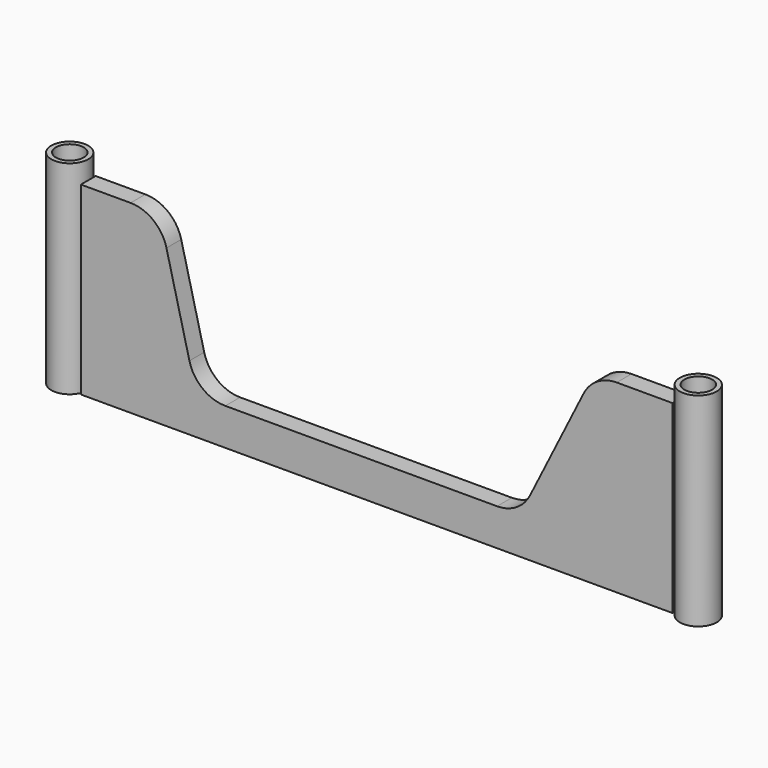
from build123d import *

# Parameters (mm, degrees)
F1_DEPTH = 12.7
F2_R     = 12.7
F2_R_2   = 9.525
F3_DEPTH = 139.7
F4_R     = 12.7
F4_R_2   = 9.525
F5_DEPTH = 139.7


with BuildPart() as f1:
    # F0 (on Front) → F1 (new body)
    with BuildSketch(Plane.XZ):
        with BuildLine():
            Line((206.551937, -297.053099), (19.831721, -297.053099))
            ThreePointArc((19.831721, -297.053099), (4.200251, -291.673517), (-4.809899, -277.813504))
            Line((-4.809899, -277.813504), (-20.590101, -214.692694))
            ThreePointArc((-20.590101, -214.692694), (-29.600251, -200.832681), (-45.231721, -195.453099))
            Line((-45.231721, -195.453099), (-79.375, -195.453099))
            Line((-79.375, -195.453099), (-79.375, -322.453099))
            Line((-79.375, -322.453099), (327.025, -322.453099))
            Line((327.025, -322.453099), (327.025, -195.453099))
            Line((327.025, -195.453099), (288.748063, -195.453099))
            ThreePointArc((288.748063, -195.453099), (275.394493, -199.246568), (266.029613, -209.493873))
            Line((266.029613, -209.493873), (229.270387, -283.012324))
            ThreePointArc((229.270387, -283.012324), (219.905507, -293.259629), (206.551937, -297.053099))
        make_face()
    extrude(amount=F1_DEPTH)

    # F2 (on face) → F3 (join)
    with BuildSketch(Plane(origin=(0, 0, -322.453099), x_dir=(1, 0, 0), z_dir=(0, 0, -1))):
        with Locations((339.725, 6.35)):
            Circle(F2_R)
        with Locations((339.725, 6.35)):
            Circle(F2_R_2, mode=Mode.SUBTRACT)
    extrude(amount=-F3_DEPTH)


with BuildPart() as f5:
    # F4 (on face) → F5 (new body)
    with BuildSketch(Plane(origin=(0, 0, -322.453099), x_dir=(1, 0, 0), z_dir=(0, 0, -1))):
        with Locations((-92.1004, 6.35)):
            Circle(F4_R)
        with Locations((-92.1004, 6.35)):
            Circle(F4_R_2, mode=Mode.SUBTRACT)
    extrude(amount=-F5_DEPTH)


solid = Compound([f1.part, f5.part])
